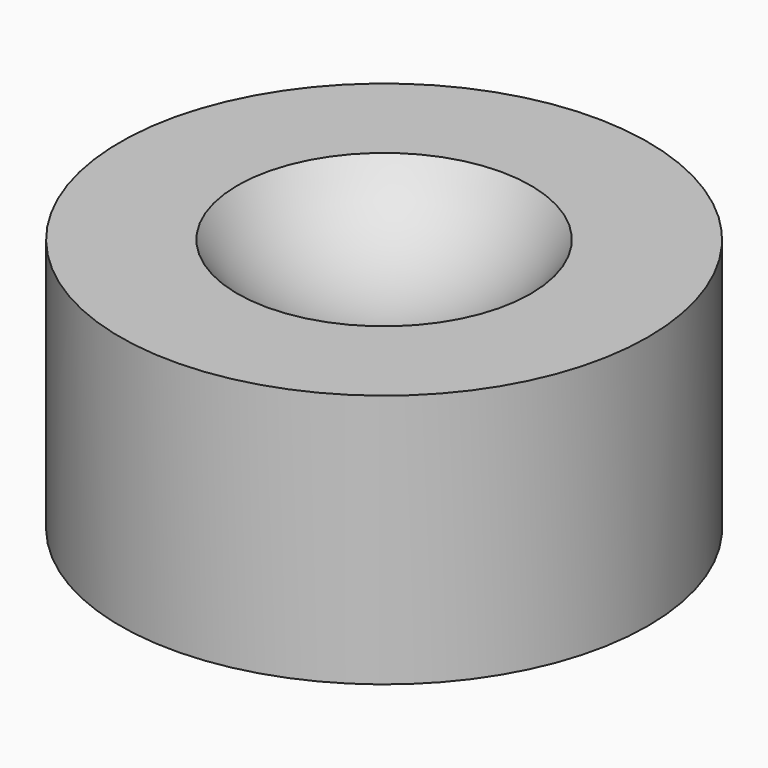
from build123d import *

# Parameters (mm, degrees)
F0_R     = 10.5
F0_R_2   = 5
F1_DEPTH = 2
F2_DEPTH = 8
F3_DEPTH = 5
F4_R     = 13.5
F5_DEPTH = 13


with BuildPart() as f1:
    # F0 (on Top) → F1 (new body)
    with BuildSketch(Plane.XY):
        Circle(F0_R)
        Circle(F0_R_2, mode=Mode.SUBTRACT)
        Circle(F0_R_2)
        Polygon((-2.8867513459, 0), (-1.443375673, 2.5), (1.443375673, 2.5), (2.8867513459, 0), (1.443375673, -2.5), (-1.443375673, -2.5), align=None, mode=Mode.SUBTRACT)
        Polygon((1.443375673, 2.5), (-1.443375673, 2.5), (-2.8867513459, 0), (-1.443375673, -2.5), (1.443375673, -2.5), (2.8867513459, 0), align=None)
    extrude(amount=F1_DEPTH)

    # F0 (on Top) → F2 (join)
    with BuildSketch(Plane.XY):
        Circle(F0_R_2)
        Polygon((-2.8867513459, 0), (-1.443375673, 2.5), (1.443375673, 2.5), (2.8867513459, 0), (1.443375673, -2.5), (-1.443375673, -2.5), align=None, mode=Mode.SUBTRACT)
    extrude(amount=F2_DEPTH)

    # F0 (on Top) → F3 (join)
    with BuildSketch(Plane.XY):
        Polygon((1.443375673, 2.5), (-1.443375673, 2.5), (-2.8867513459, 0), (-1.443375673, -2.5), (1.443375673, -2.5), (2.8867513459, 0), align=None)
    extrude(amount=F3_DEPTH)


with BuildPart() as f5:
    # F4 (on Top) → F5 (new body)
    with BuildSketch(Plane.XY):
        Circle(F4_R)
    extrude(amount=F5_DEPTH)

    # F6: cut F1
    add(f1.part, mode=Mode.SUBTRACT)

    # F7 (on Right) → F8 (revolve, cut)
    with BuildSketch(Plane.YZ):
        with BuildLine():
            Line((0, 9), (0, 13))
            Line((0, 13), (-7.5, 13))
            ThreePointArc((-7.5, 13), (-4.25, 10.0625), (0, 9))
        make_face()
    revolve(axis=Axis((0, 0, 13.9612619239), (0, 0, -1)), mode=Mode.SUBTRACT)


solid = Compound([f1.part, f5.part])
